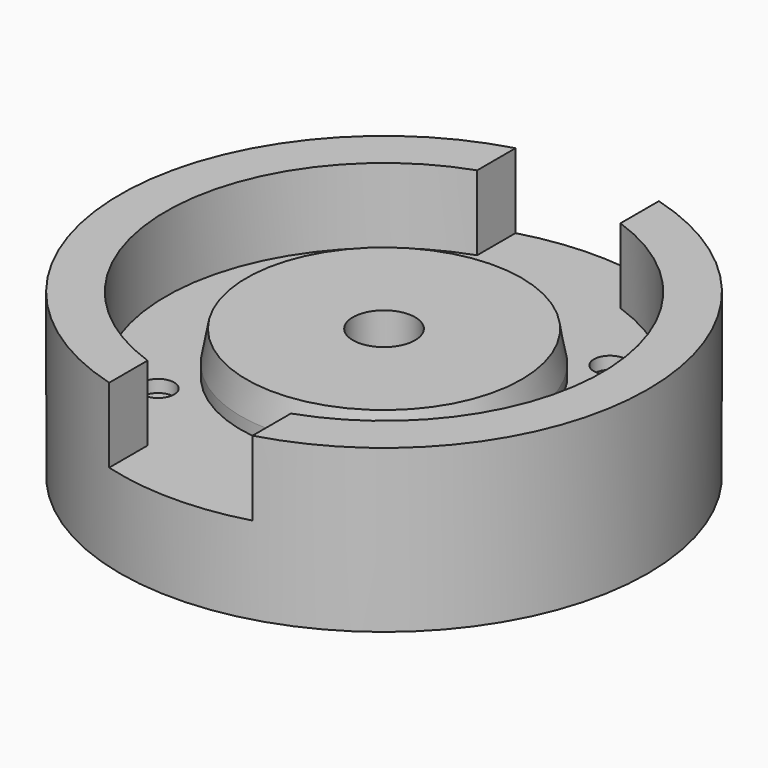
from build123d import *

# Parameters (mm, degrees)
F0_R      = 42.35
F1_DEPTH  = 26
F2_R      = 35
F3_DEPTH  = 12
F6_W      = 23
F6_H      = 100
F7_DEPTH  = 12
F8_R      = 2.6
F9_DEPTH  = 2
F12_R     = 5
F13_DEPTH = 26.001


with BuildPart() as f1:
    # F0 (on Top) → F1 (new body)
    with BuildSketch(Plane.XY):
        Circle(F0_R)
    extrude(amount=F1_DEPTH)

    # F2 (on face) → F3 (cut)
    with BuildSketch(Plane.XY.offset(26)):
        Circle(F2_R)
    extrude(amount=-F3_DEPTH, mode=Mode.SUBTRACT)

    # F6 (on face) → F7 (cut)
    with BuildSketch(Plane.XY.offset(26)):
        Rectangle(F6_W, F6_H)
    extrude(amount=-F7_DEPTH, mode=Mode.SUBTRACT)

    # F8 (on face) → F9 (cut)
    with BuildSketch(Plane.XY.offset(14)):
        with Locations((-20.152543, 20.152543)):
            Circle(F8_R)
        with Locations((20.152543, 20.152543)):
            Circle(F8_R)
        with Locations((20.152543, -20.152543)):
            Circle(F8_R)
        with Locations((-20.152543, -20.152543)):
            Circle(F8_R)
    extrude(amount=-F9_DEPTH, mode=Mode.SUBTRACT)

    # F10 (on Front) → F11 (revolve)
    with BuildSketch(Plane.XZ):
        Polygon((22.075, 20.8), (0, 20.8), (0, 14), (22.975, 14), (22.975, 15.9), align=None)
    revolve(axis=Axis((0, 0, 8.84423), (0, 0, 1)))

    # F12 (on face) → F13 (cut, through all)
    with BuildSketch(Plane(origin=(0, 0, 0), x_dir=(1, 0, 0), z_dir=(0, 0, -1))):
        Circle(F12_R)
    extrude(amount=-F13_DEPTH, mode=Mode.SUBTRACT)


solid = f1.part
